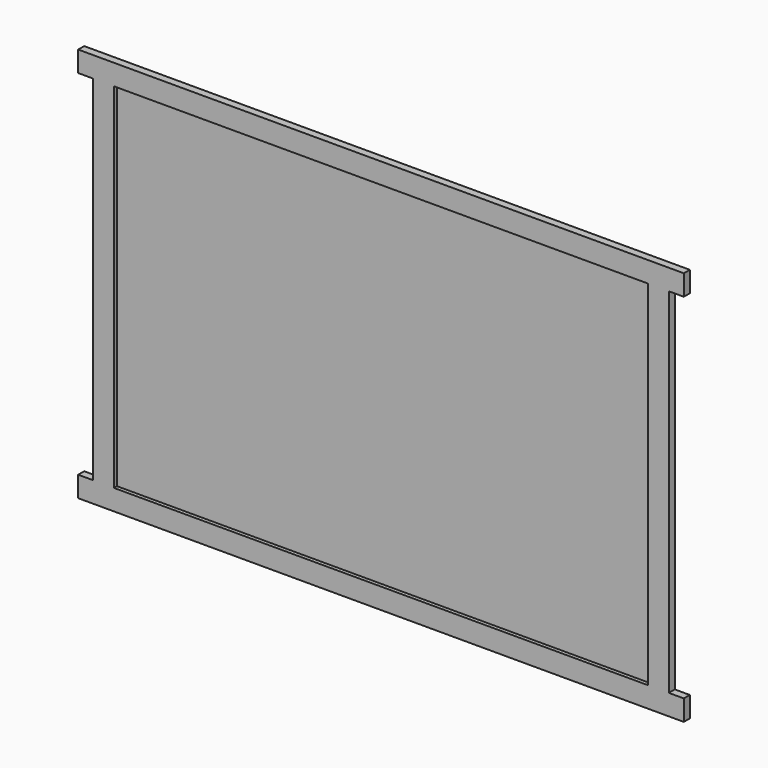
from build123d import *

# Parameters (mm, degrees)
F0_W     = 901.7
F0_H     = 596.9
F1_DEPTH = 6.35
F0_W_2   = 34.925
F2_DEPTH = 12.7


with BuildPart() as f1:
    # F0 (on Front) → F1 (new body)
    with BuildSketch(Plane.XZ):
        with Locations((-450.85, 0)):
            Rectangle(F0_W, F0_H)
    extrude(amount=F1_DEPTH)

    # F0 (on Front) → F2 (join)
    with BuildSketch(Plane.XZ):
        Polygon((-936.625, 298.45), (-901.7, 298.45), (0, 298.45), (34.925, 298.45), (60.325, 298.45), (60.325, 333.375), (-962.025, 333.375), (-962.025, 298.45), align=None)
        with Locations((-919.1625, 0)):
            Rectangle(F0_W_2, F0_H)
        with Locations((17.4625, 0)):
            Rectangle(F0_W_2, F0_H)
        Polygon((0, -298.45), (-901.7, -298.45), (-936.625, -298.45), (-962.025, -298.45), (-962.025, -333.375), (60.325, -333.375), (60.325, -298.45), (34.925, -298.45), align=None)
    extrude(amount=F2_DEPTH)


solid = f1.part
